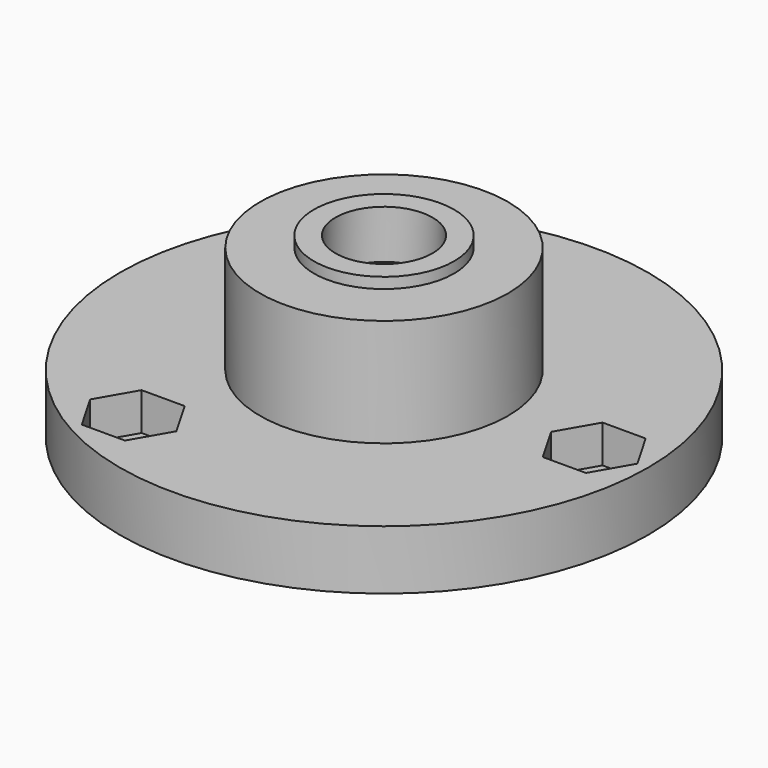
from build123d import *

# Parameters (mm, degrees)
TUBE_R            = 6.5
TUBE_R_2          = 4.5
TUBE_DEPTH        = 1
PAD001_DEPTH      = 12
CYLINDER018_R     = 4.5
CYLINDER018_DEPTH = 500
CYLINDER012_R     = 11.5
CYLINDER012_DEPTH = 1
PAD_DEPTH         = 3.5
CYLINDER011_R     = 2.25
CYLINDER011_DEPTH = 10
ARRAY002_COUNT    = 3
CYLINDER010_R     = 24.5
CYLINDER010_DEPTH = 5.5
CYLINDER013_R     = 11.5
CYLINDER013_DEPTH = 10


with BuildPart() as tube:
    # Tube → Tube (new body)
    with BuildSketch(Plane.XY.offset(35.5)):
        Circle(TUBE_R)
        Circle(TUBE_R_2, mode=Mode.SUBTRACT)
    extrude(amount=TUBE_DEPTH)


with BuildPart() as obj1:
    # Sketch001 → Pad001 (new body)
    with BuildSketch(Plane.XY):
        Polygon((7.6, 0), (3.8, 6.581793), (-3.8, 6.581793), (-7.6, 0), (-3.8, -6.581793), (3.8, -6.581793), align=None)
    extrude(amount=PAD001_DEPTH)


with BuildPart() as obj1_1:
    # Body001 placement: moved
    add(obj1.part.moved(Location((0, 0, 20))))


with BuildPart() as fusion007:
    # Cylinder018 → Cylinder018 (new body)
    with BuildSketch(Plane.XY):
        Circle(CYLINDER018_R)
    extrude(amount=CYLINDER018_DEPTH)

    # Fusion007: union obj1
    add(obj1_1.part)


with BuildPart() as cylinder012:
    # Cylinder012 → Cylinder012 (new body)
    with BuildSketch(Plane.XY.offset(20)):
        Circle(CYLINDER012_R)
    extrude(amount=CYLINDER012_DEPTH)


with BuildPart() as obj2:
    # Sketch → Pad (new body)
    with BuildSketch(Plane.XY):
        Polygon((4, 0), (2, 3.464102), (-2, 3.464102), (-4, 0), (-2, -3.464102), (2, -3.464102), align=None)
    extrude(amount=PAD_DEPTH)


with BuildPart() as obj2_1:
    # Body placement: moved
    add(obj2.part.moved(Location((19.5, 0, 22))))


with BuildPart() as array002:
    # Cylinder011 → Cylinder011 (new body)
    with BuildSketch(Plane(origin=(19.5, 0, 20), x_dir=(1, 0, 0), z_dir=(0, 0, 1))):
        Circle(CYLINDER011_R)
    extrude(amount=CYLINDER011_DEPTH)

    # Fusion003: union obj2
    add(obj2_1.part)

    # Array002: Array002 ×3 about axis
    array002_axis = Axis((0, 0, 0), (0, 0, 1))


with BuildPart() as array002_1:
    add(array002.part)
    for i in range(1, ARRAY002_COUNT):
        add(array002.part.rotate(array002_axis, i * 360 / ARRAY002_COUNT))


with BuildPart() as cut006:
    # Cylinder010 → Cylinder010 (new body)
    with BuildSketch(Plane.XY.offset(20)):
        Circle(CYLINDER010_R)
    extrude(amount=CYLINDER010_DEPTH)

    # Cut005: cut Array002
    add(array002_1.part, mode=Mode.SUBTRACT)

    # Cut006: cut Cylinder012
    add(cylinder012.part, mode=Mode.SUBTRACT)


with BuildPart() as finalplanetcarrier:
    # Cylinder013 → Cylinder013 (new body)
    with BuildSketch(Plane.XY.offset(25.5)):
        Circle(CYLINDER013_R)
    extrude(amount=CYLINDER013_DEPTH)

    # Fusion008: union Cut006
    add(cut006.part)

    # Cut008: cut Fusion007
    add(fusion007.part, mode=Mode.SUBTRACT)

    # Fusion009: union Tube
    add(tube.part)


solid = finalplanetcarrier.part
